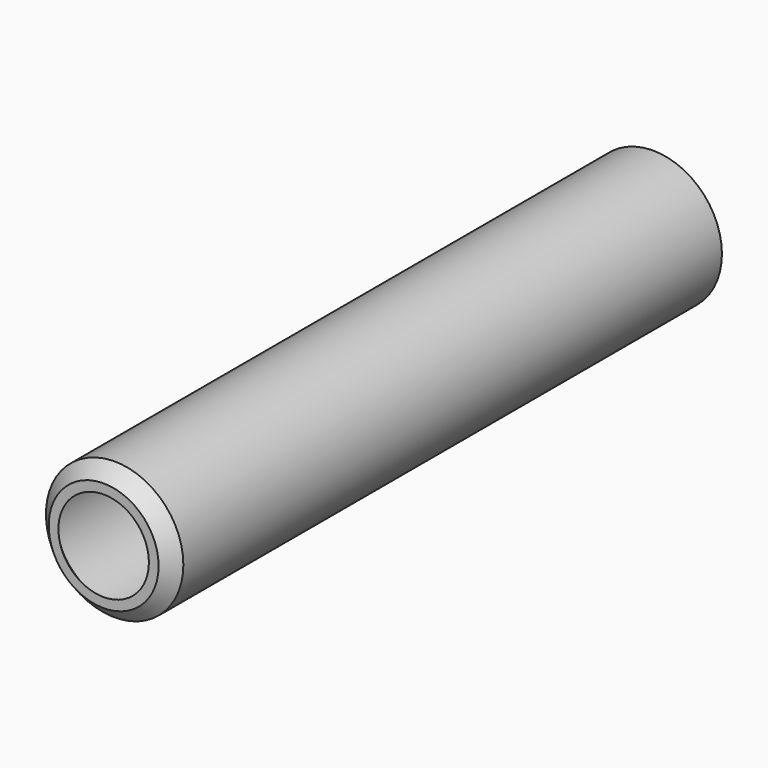
from build123d import *

# Parameters (mm, degrees)
F0_R     = 25.4
F1_DEPTH = 254
F2_SIZE  = 5.08
F3_T     = -2.54


with BuildPart() as f1:
    # F0 (on Front) → F1 (new body)
    with BuildSketch(Plane.XZ):
        Circle(F0_R)
    extrude(amount=F1_DEPTH)

    # F2
    f2_edges = [f1.edges().sort_by_distance(p)[0] for p in [
        (-25.4, -254, 0),
    ]]
    chamfer(f2_edges, length=F2_SIZE)

    # F3
    f3_openings = [f1.faces().sort_by_distance(p)[0] for p in [
        (0, -254, 0),
    ]]
    offset(amount=F3_T, openings=f3_openings)


solid = f1.part
